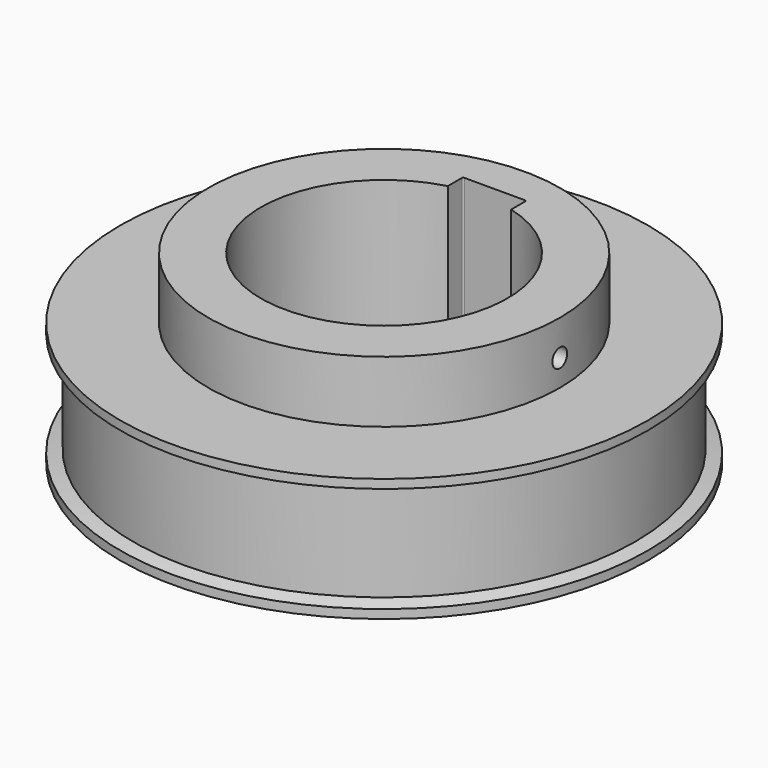
from build123d import *

# Parameters (mm, degrees)
F0_R     = 149.8
F0_R_2   = 99.8
F1_DEPTH = 70
F0_R_3   = 70
F2_DEPTH = 105
F6_DEPTH = 78.4
F8_D     = 10.5
F8_DEPTH = 149.801
F9_R     = 0.8


with BuildPart() as f1:
    # F0 (on Top) → F1 (new body)
    with BuildSketch(Plane.XY):
        Circle(F0_R)
        Circle(F0_R_2, mode=Mode.SUBTRACT)
    extrude(amount=F1_DEPTH)

    # F0 (on Top) → F2 (join)
    with BuildSketch(Plane.XY):
        Circle(F0_R_2)
        Circle(F0_R_3, mode=Mode.SUBTRACT)
    extrude(amount=F2_DEPTH)

    # F4: sweep along a path in F4_path
    with BuildLine(Plane(origin=(149.8, 0, 70), x_dir=(0, -1, 0), z_dir=(0, 0, -1))) as f4_path:
        CenterArc((0, 149.8), 149.8, 0, 360)
    # F3 (on Right) → F4 (sweep, cut)
    with BuildSketch(Plane.YZ):
        Polygon((-142.5000025749, 7.0000045449), (-149.8000025749, 7.0000045449), (-149.8000025749, 5.0000045449), align=None)
        Polygon((-142.5000025749, 63.0000045449), (-149.8000025749, 65.0000045449), (-149.8000025749, 7.0000045449), (-142.5000025749, 7.0000045449), align=None)
    sweep(path=f4_path.line, mode=Mode.SUBTRACT)

    # F5 (on Front) → F6 (cut)
    with BuildSketch(Plane.XZ):
        Polygon((-18, -125), (0, 0), (-18, 125), align=None)
        Polygon((0, -125), (18, -125), (0, 0), (-18, -125), align=None)
        Polygon((0, 0), (18, -125), (18, 125), align=None)
        Polygon((0, 0), (18, 125), (-18, 125), align=None)
    extrude(amount=-F6_DEPTH, mode=Mode.SUBTRACT)

    # F8 (through all, one way)
    with BuildSketch(Plane(origin=(0, 0, 0), x_dir=(0, 1, 0), z_dir=(-1, 0, 0))):
        with Locations((0, -85)):
            Circle(F8_D / 2)
    extrude(amount=-F8_DEPTH, mode=Mode.SUBTRACT)

    # F9
    f9_edges = [f1.edges().sort_by_distance(p)[0] for p in [
        (18, 78.4, 52.5),
        (-18, 78.4, 52.5),
    ]]
    fillet(f9_edges, radius=F9_R)


solid = f1.part
